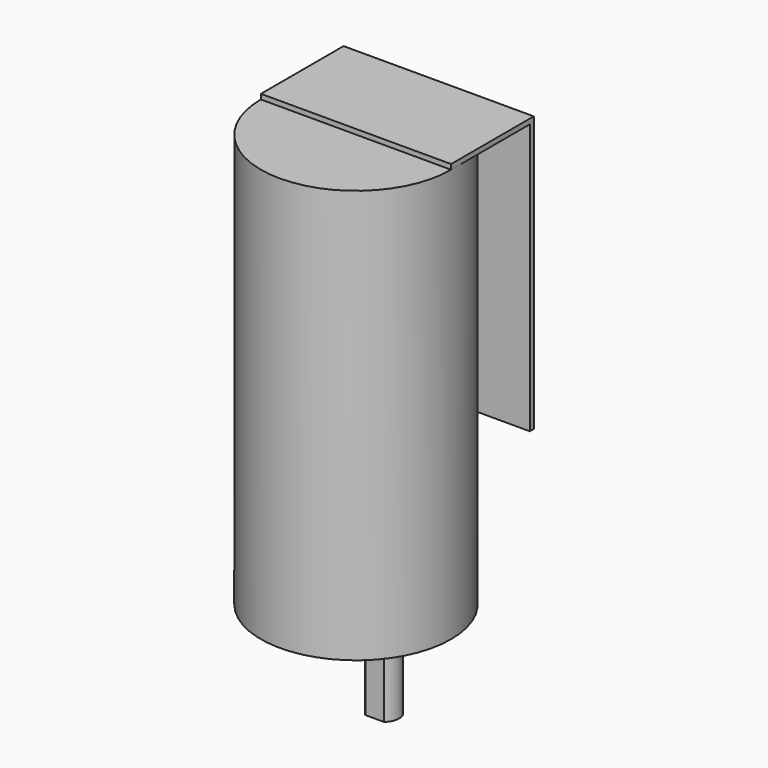
from build123d import *

# Parameters (mm, degrees)
SKETCH_R     = 19
PAD_DEPTH    = 82.6
SKETCH001_R  = 6
PAD001_DEPTH = 7
PAD002_DEPTH = 15
SKETCH003_W  = 38
SKETCH003_H  = 19.65
PAD003_DEPTH = 1
SKETCH005_W  = 38
SKETCH005_H  = 55
PAD004_DEPTH = 1


with BuildPart() as part:
    # Sketch → Pad (new body)
    with BuildSketch(Plane.XY):
        Circle(SKETCH_R)
    extrude(amount=PAD_DEPTH)

    # Sketch001 → Pad001 (new body)
    with BuildSketch(Plane(origin=(0, 0, 0), x_dir=(1, 0, 0), z_dir=(0, 0, -1))):
        with Locations((0, -7)):
            Circle(SKETCH001_R)
    extrude(amount=PAD001_DEPTH)

    # Sketch002 → Pad002 (new body)
    with BuildSketch(Plane(origin=(0, 0, -7), x_dir=(1, 0, 0), z_dir=(0, 0, -1))):
        with BuildLine():
            Line((-1.85, -4.638327), (1.85, -4.638327))
            ThreePointArc((-1.85, -4.638327), (0, -10), (1.85, -4.638327))
        make_face()
    extrude(amount=PAD002_DEPTH)

    # Sketch003 → Pad003 (new body)
    with BuildSketch(Plane.XY.offset(82.6)):
        with Locations((0, 9.825)):
            Rectangle(SKETCH003_W, SKETCH003_H)
    extrude(amount=PAD003_DEPTH)

    # Sketch005 → Pad004 (new body)
    with BuildSketch(Plane(origin=(0, 19.65, 0), x_dir=(-1, 0, 0), z_dir=(0, 1, 0))):
        with Locations((0, 56.1)):
            Rectangle(SKETCH005_W, SKETCH005_H)
    extrude(amount=PAD004_DEPTH)


solid = part.part
